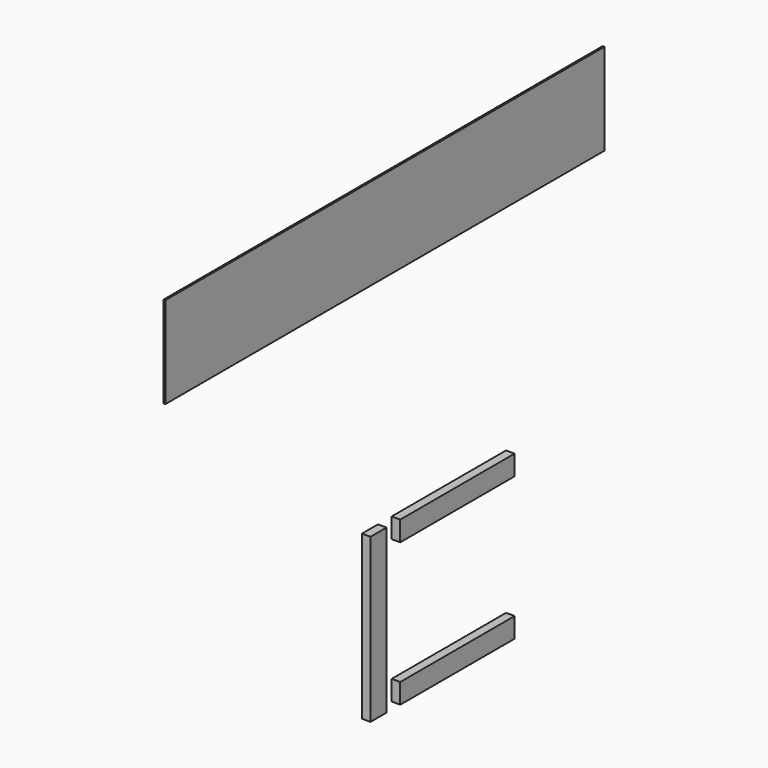
from build123d import *

# Parameters (mm, degrees)
F0_W     = 88.9
F0_H     = 723.9
F0_W_2   = 635
F0_H_2   = 88.9
F1_DEPTH = 38.1
F2_W     = 2438.4
F2_H     = 406.4
F3_DEPTH = 6.35
F4_W     = 2438.4
F4_H     = 406.4
F5_DEPTH = 0.79375
F6_W     = 2438.4
F6_H     = 406.4
F7_DEPTH = 0.79375


with BuildPart() as f1:
    # F0 (on Right) → F1 (new body)
    with BuildSketch(Plane.YZ):
        with Locations((-433.283936, -116.526383)):
            Rectangle(F0_W, F0_H)
        with Locations((4.866064, -434.026375)):
            Rectangle(F0_W_2, F0_H_2)
        with Locations((4.866064, 200.973617)):
            Rectangle(F0_W_2, F0_H_2)
    extrude(amount=F1_DEPTH)


with BuildPart() as f3:
    # F2 (on Right) → F3 (new body)
    with BuildSketch(Plane.YZ):
        with Locations((-359.135404, 1404.214156)):
            Rectangle(F2_W, F2_H)
    extrude(amount=F3_DEPTH)


with BuildPart() as f5:
    # F4 (on face) → F5 (new body)
    with BuildSketch(Plane.YZ.offset(6.35)):
        with Locations((-359.135404, 1404.214156)):
            Rectangle(F4_W, F4_H)
    extrude(amount=F5_DEPTH)


with BuildPart() as f7:
    # F6 (on face) → F7 (new body)
    with BuildSketch(Plane(origin=(0, 0, 0), x_dir=(0, -1, 0), z_dir=(-1, 0, 0))):
        with Locations((359.135404, 1404.214156)):
            Rectangle(F6_W, F6_H)
    extrude(amount=F7_DEPTH)


solid = Compound([f1.part, f3.part, f5.part, f7.part])
